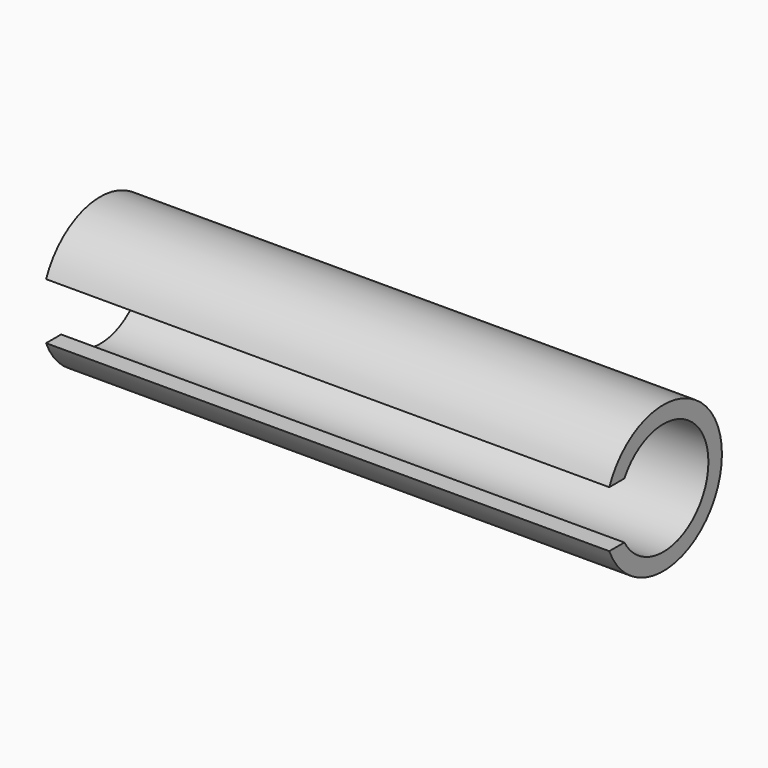
from build123d import *

# Parameters (mm, degrees)
F0_W     = 5
F0_H     = 0.15
F2_W     = 10.601742
F2_H     = 0.5
F3_DEPTH = 25


with BuildPart() as f1:
    # F0 (on Front) → F1 (revolve)
    with BuildSketch(Plane.XZ):
        with Locations((0.75, 0.575)):
            Rectangle(F0_W, F0_H)
    revolve(axis=Axis((0.238889, 0, 0), (1, 0, 0)))

    # F2 (on Front) → F3 (cut)
    with BuildSketch(Plane.XZ):
        Rectangle(F2_W, F2_H)
    extrude(amount=F3_DEPTH, mode=Mode.SUBTRACT)


solid = f1.part
